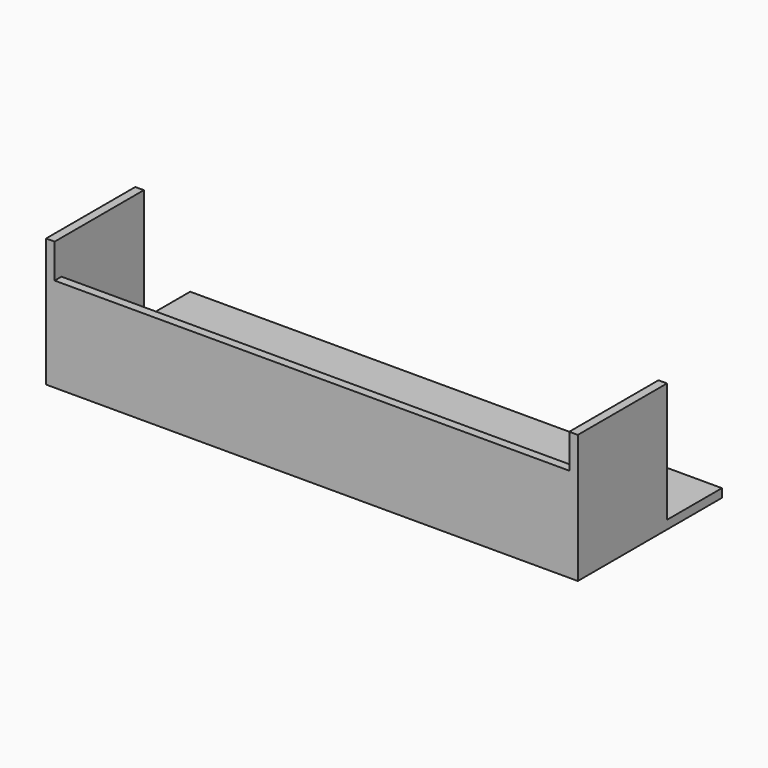
from build123d import *

# Parameters (mm, degrees)
F0_W     = 393.7
F0_H     = 95.25
F1_DEPTH = 133.35
F2_W     = 381
F2_H     = 127
F3_DEPTH = 88.9
F4_W     = 50.8
F4_H     = 88.9
F5_DEPTH = 406.4
F6_W     = 381
F6_H     = 25.4
F7_DEPTH = 25.4


with BuildPart() as f1:
    # F0 (on Front) → F1 (new body)
    with BuildSketch(Plane.XZ):
        Rectangle(F0_W, F0_H)
    extrude(amount=F1_DEPTH)

    # F2 (on face) → F3 (cut)
    with BuildSketch(Plane.XY.offset(47.625)):
        with Locations((0, -63.5)):
            Rectangle(F2_W, F2_H)
    extrude(amount=-F3_DEPTH, mode=Mode.SUBTRACT)

    # F4 (on face) → F5 (cut)
    with BuildSketch(Plane(origin=(-196.85, 0, 0), x_dir=(0, -1, 0), z_dir=(-1, 0, 0))):
        with Locations((25.4, 3.175)):
            Rectangle(F4_W, F4_H)
    extrude(amount=-F5_DEPTH, mode=Mode.SUBTRACT)

    # F6 (on face) → F7 (cut)
    with BuildSketch(Plane(origin=(0, -127, 0), x_dir=(-1, 0, 0), z_dir=(0, 1, 0))):
        with Locations((0, 34.925)):
            Rectangle(F6_W, F6_H)
    extrude(amount=-F7_DEPTH, mode=Mode.SUBTRACT)


solid = f1.part
